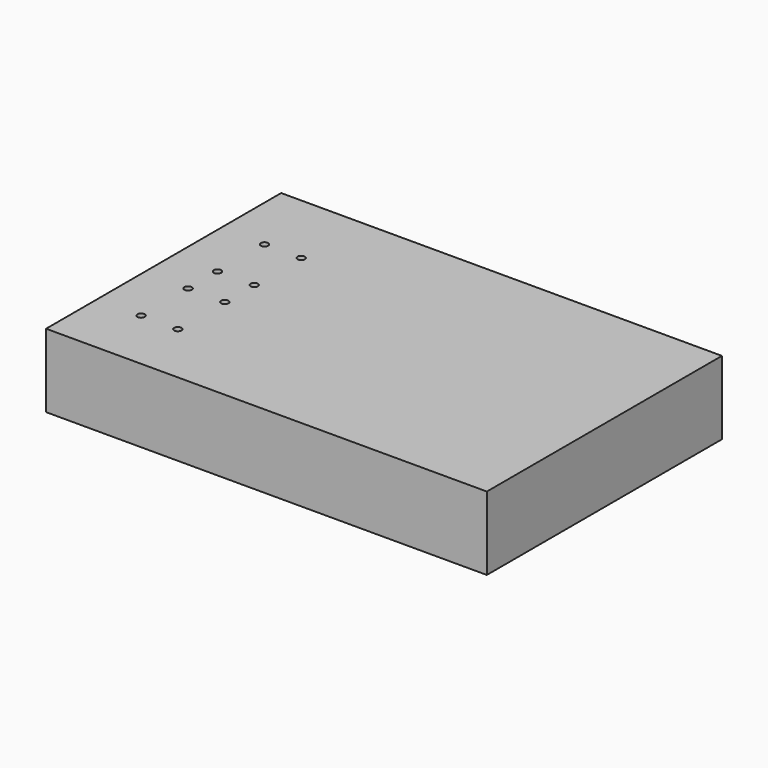
from build123d import *

# Parameters (mm, degrees)
F0_W     = 762
F0_H     = 508
F1_DEPTH = 63.5
F2_D     = 12.7
F2_DEPTH = 63.501


with BuildPart() as f1:
    # F0 (on Top) → F1 (new body, symmetric)
    with BuildSketch(Plane.XY):
        with Locations((1.8808878958, 5.9762554561)):
            Rectangle(F0_W, F0_H)
    extrude(amount=F1_DEPTH, both=True)

    # F2 (through all, one way)
    with BuildSketch(Plane(origin=(0, 0, 0), x_dir=(1, 0, 0), z_dir=(0, 0, -1))):
        with Locations((-302.9191121042, -128.7565231323), (-239.4191121042, -128.7565231323), (-302.9191121042, -27.1565231323), (-239.4191121042, -27.1565231323), (-302.9191121042, 36.3434768677), (-239.4191121042, 36.3434768677), (-302.9191121042, 137.9434768677), (-239.4191121042, 137.9434768677)):
            Circle(F2_D / 2)
    extrude(amount=-F2_DEPTH, mode=Mode.SUBTRACT)


solid = f1.part
